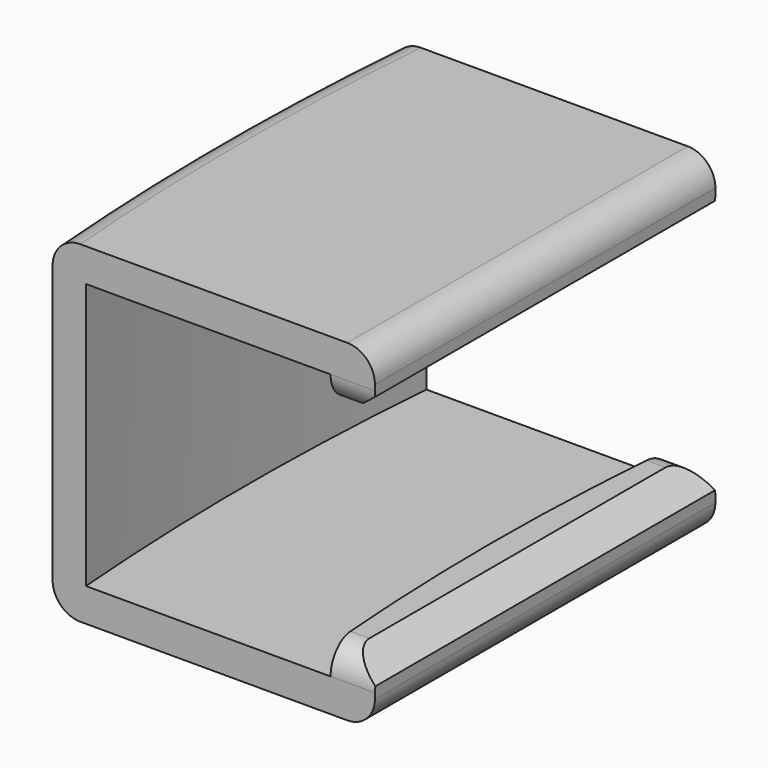
from build123d import *

# Parameters (mm, degrees)
PAD003_DEPTH       = 1.2
PAD004_DEPTH       = 9.6
PAD005_DEPTH       = 1.2
PAD006_DEPTH       = 1
PAD007_DEPTH       = 1
CHAMFER001_1_SIZE2 = 0.8
CHAMFER001_1_SIZE  = 1
CHAMFER001_2_SIZE2 = 0.8
CHAMFER001_2_SIZE  = 1
FILLET001_R        = 1


with BuildPart() as part:
    # Sketch006 → Pad003 (new body)
    with BuildSketch(Plane.XY):
        with BuildLine():
            ThreePointArc((-94.2875364362, 7.682478298), (-94.6, 0), (-94.2875364362, -7.682478298))
            Line((-94.2875364362, -7.682478298), (-82.6504571335, -7.682478298))
            Line((-82.6504571335, 7.682478298), (-82.6504571335, -7.682478298))
            Line((-94.2875364362, 7.682478298), (-82.6504571335, 7.682478298))
        make_face()
    extrude(amount=PAD003_DEPTH)

    # Sketch007 → Pad004 (join)
    with BuildSketch(Plane.XY.offset(1.2)):
        with BuildLine():
            ThreePointArc((-94.2875364362, 7.682478298), (-94.6, 0), (-94.2875364362, -7.682478298))
            Line((-93.0835083525, -7.682478298), (-94.2875364362, -7.682478298))
            ThreePointArc((-93.0835083525, 7.682478298), (-93.4, 0), (-93.0835083525, -7.682478298))
            Line((-94.2875364362, 7.682478298), (-93.0835083525, 7.682478298))
        make_face()
    extrude(amount=PAD004_DEPTH)

    # Sketch008 → Pad005 (join)
    with BuildSketch(Plane.XY.offset(10.8)):
        with BuildLine():
            ThreePointArc((-94.2875364362, 7.682478298), (-94.6, 0), (-94.2875364362, -7.682478298))
            Line((-94.2875364362, -7.682478298), (-82.6504571335, -7.682478298))
            Line((-82.6504571335, 7.682478298), (-82.6504571335, -7.682478298))
            Line((-94.2875364362, 7.682478298), (-82.6504571335, 7.682478298))
        make_face()
    extrude(amount=PAD005_DEPTH)

    # Sketch009 → Pad006 (join)
    with BuildSketch(Plane.XY.offset(1.2)):
        with BuildLine():
            ThreePointArc((-84.2504571335, 7.682478298), (-84.6, 0), (-84.2504571335, -7.682478298))
            Line((-82.6504571335, -7.682478298), (-84.2504571335, -7.682478298))
            Line((-82.6504571335, 7.682478298), (-82.6504571335, -7.682478298))
            Line((-84.2504571335, 7.682478298), (-82.6504571335, 7.682478298))
        make_face()
    extrude(amount=PAD006_DEPTH)

    # Sketch010 → Pad007 (join)
    with BuildSketch(Plane.XY.offset(10.8)):
        with BuildLine():
            ThreePointArc((-84.2504571335, 7.682478298), (-84.6, 0), (-84.2504571335, -7.682478298))
            Line((-82.6504571335, -7.682478298), (-84.2504571335, -7.682478298))
            Line((-82.6504571335, 7.682478298), (-82.6504571335, -7.682478298))
            Line((-84.2504571335, 7.682478298), (-82.6504571335, 7.682478298))
        make_face()
    extrude(amount=-PAD007_DEPTH)

    # Chamfer001 1
    chamfer001_1_edges = [part.edges().sort_by_distance(p)[0] for p in [
        (-82.650457, 0, 2.2),
    ]]
    chamfer001_1_side = part.faces().sort_by_distance((-83.56998, 0, 2.2))[0]
    chamfer(chamfer001_1_edges, length=CHAMFER001_1_SIZE, length2=CHAMFER001_1_SIZE2, reference=chamfer001_1_side)

    # Chamfer001 2
    chamfer001_2_edges = [part.edges().sort_by_distance(p)[0] for p in [
        (-82.650457, 0, 9.8),
    ]]
    chamfer001_2_side = part.faces().sort_by_distance((-83.56998, 0, 9.8))[0]
    chamfer(chamfer001_2_edges, length=CHAMFER001_2_SIZE, length2=CHAMFER001_2_SIZE2, reference=chamfer001_2_side)

    # Fillet001
    fillet001_edges = [part.edges().sort_by_distance(p)[0] for p in [
        (-94.6, 0, 0),
        (-94.6, 0, 12),
        (-82.650457, 0, 0),
        (-82.650457, 0, 12),
        (-83.950457, -7.682478, 9.8),
        (-83.950457, -7.682478, 2.2),
        (-83.950457, 7.682478, 2.2),
        (-83.950457, 7.682478, 9.8),
    ]]
    fillet(fillet001_edges, radius=FILLET001_R)


solid = part.part
